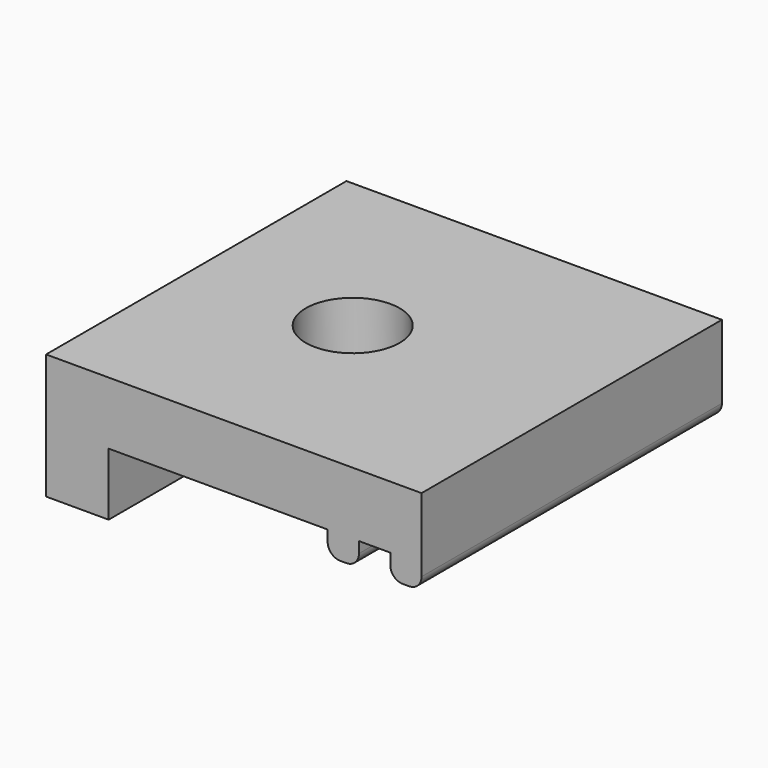
from build123d import *

# Parameters (mm, degrees)
F1_DEPTH = 12
F2_R     = 1.5
F3_DEPTH = 25


with BuildPart() as f1:
    # F0 (on Front) → F1 (new body)
    with BuildSketch(Plane.XZ):
        with BuildLine():
            Line((31.308817, 6.905823), (19.308817, 6.905823))
            Line((19.308817, 6.905823), (19.308817, 2.905823))
            Line((19.308817, 2.905823), (21.308817, 2.905823))
            Line((21.308817, 2.905823), (21.308817, 4.905823))
            Line((21.308817, 4.905823), (28.308817, 4.905823))
            Line((28.308817, 4.905823), (28.308817, 4.555823))
            ThreePointArc((28.308817, 4.555823), (28.425974, 4.27298), (28.708817, 4.155823))
            Line((28.708817, 4.155823), (28.908817, 4.155823))
            ThreePointArc((28.908817, 4.155823), (29.19166, 4.27298), (29.308817, 4.555823))
            Line((29.308817, 4.555823), (29.308817, 4.905823))
            Line((29.308817, 4.905823), (30.308817, 4.905823))
            Line((30.308817, 4.905823), (30.308817, 4.555823))
            ThreePointArc((30.308817, 4.555823), (30.425974, 4.27298), (30.708817, 4.155823))
            Line((30.708817, 4.155823), (30.908817, 4.155823))
            ThreePointArc((30.908817, 4.155823), (31.19166, 4.27298), (31.308817, 4.555823))
            Line((31.308817, 4.555823), (31.308817, 5.32134))
            Line((31.308817, 5.32134), (31.308817, 5.390306))
            Line((31.308817, 5.390306), (31.308817, 6.905823))
        make_face()
    extrude(amount=F1_DEPTH)

    # F2 (on face) → F3 (cut)
    with BuildSketch(Plane(origin=(0, 0, 4.905823), x_dir=(1, 0, 0), z_dir=(0, 0, -1))):
        with Locations((24.308817, 6)):
            Circle(F2_R)
    extrude(amount=-F3_DEPTH, mode=Mode.SUBTRACT)


solid = f1.part
